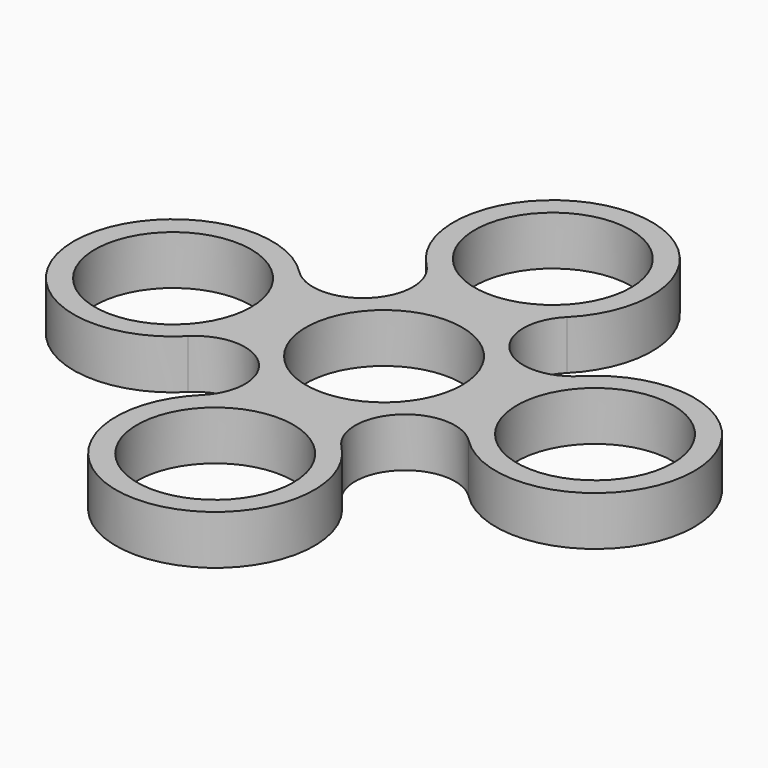
from build123d import *

# Parameters (mm, degrees)
F0_R     = 11.105
F1_DEPTH = 7


with BuildPart() as f1:
    # F0 (on Top) → F1 (new body)
    with BuildSketch(Plane.XY):
        with BuildLine():
            ThreePointArc((-20.026259, -9.83311), (-9.957482, -9.833154), (-9.957497, -19.901931))
            ThreePointArc((-9.957497, -19.901931), (-0.142123, -44.05029), (9.973741, -20.026259))
            ThreePointArc((9.973741, -20.026259), (9.973741, -9.974029), (20.025971, -9.974029))
            ThreePointArc((20.025971, -9.974029), (44.151246, -0.047243), (20.026258, 9.880239))
            ThreePointArc((20.026258, 9.880239), (9.926989, 9.926991), (9.973741, 20.026259))
            ThreePointArc((9.973741, 20.026259), (0, 44.104278), (-9.973741, 20.026259))
            ThreePointArc((-9.973741, 20.026259), (-9.973741, 9.973741), (-20.026259, 9.973741))
            ThreePointArc((-20.026259, 9.973741), (-44.174823, 0.070316), (-20.026259, -9.83311))
        make_face()
        with Locations((-30, 0)):
            Circle(F0_R, mode=Mode.SUBTRACT)
        with Locations((0, -30)):
            Circle(F0_R, mode=Mode.SUBTRACT)
        Circle(F0_R, mode=Mode.SUBTRACT)
        with Locations((30, 0)):
            Circle(F0_R, mode=Mode.SUBTRACT)
        with Locations((0, 30)):
            Circle(F0_R, mode=Mode.SUBTRACT)
    extrude(amount=F1_DEPTH)


solid = f1.part
